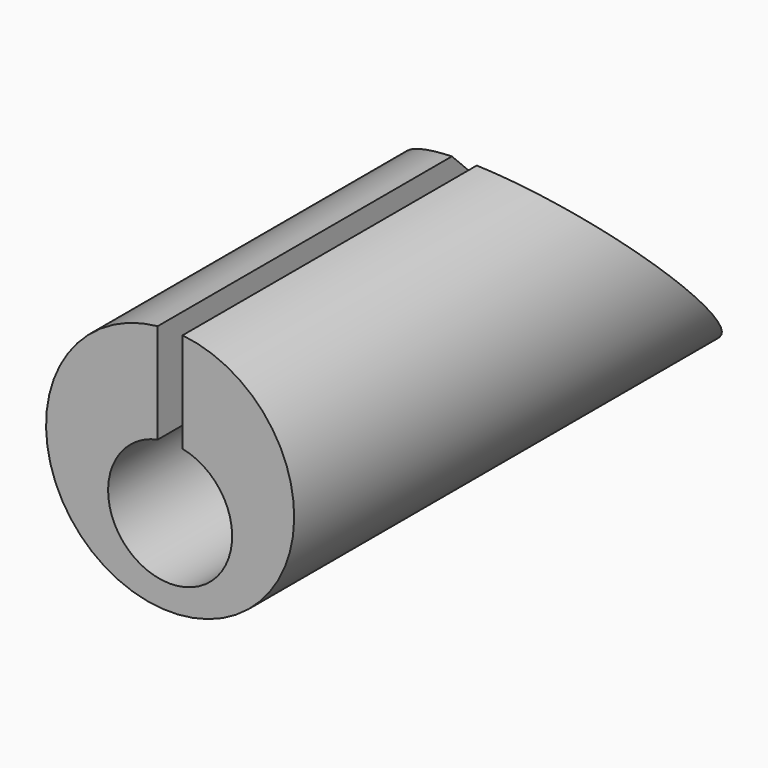
from build123d import *

# Parameters (mm, degrees)
F1_DEPTH      = 25
F3_DEPTH      = 25
F3_DEPTH_BACK = 25


with BuildPart() as f1:
    # F0 (on Front) → F1 (new body)
    with BuildSketch(Plane.XZ):
        with BuildLine():
            Line((-0.5, 0.9494897428), (-0.5, 4.9749371855))
            ThreePointArc((-0.5, 4.9749371855), (0, -5), (0.5, 4.9749371855))
            Line((0.5, 4.9749371855), (0.5, 0.9494897428))
            ThreePointArc((0.5, 0.9494897428), (0, -4), (-0.5, 0.9494897428))
        make_face()
    extrude(amount=F1_DEPTH)

    # F2 (on Right) → F3 (cut, two sides)
    with BuildSketch(Plane.YZ) as f3_sk:
        Polygon((11.2814342175, 12.2972726822), (-17.5016591489, 12.2972726822), (11.2814342175, -16.4858206842), align=None)
    extrude(amount=-F3_DEPTH, mode=Mode.SUBTRACT)
    extrude(f3_sk.sketch, amount=F3_DEPTH_BACK, mode=Mode.SUBTRACT)


solid = f1.part
